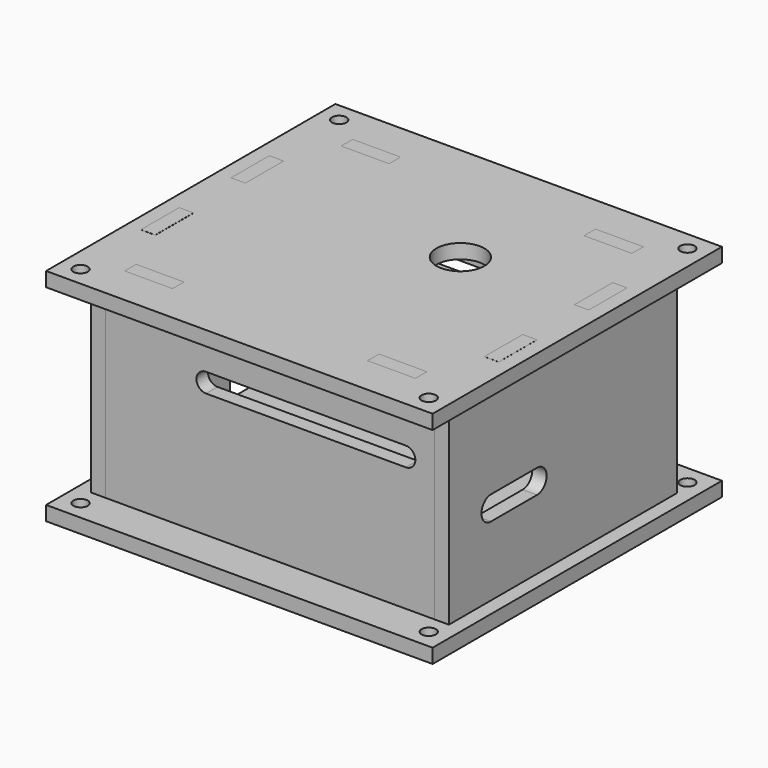
from build123d import *

# Parameters (mm, degrees)
SKETCH_W      = 80.7
SKETCH_H      = 75.5
SKETCH_R      = 1.5
SKETCH_W_2    = 10
SKETCH_H_2    = 3
SKETCH_W_3    = 3
SKETCH_H_3    = 10
PAD_DEPTH     = 3
PAD001_DEPTH  = 3
PAD002_DEPTH  = 3
PAD003_DEPTH  = 3
SKETCH004_W   = 80.7
SKETCH004_H   = 75.5
SKETCH004_R   = 1.5
SKETCH004_R_2 = 5
SKETCH004_W_2 = 10
SKETCH004_H_2 = 3
SKETCH004_W_3 = 3
SKETCH004_H_3 = 10
PAD004_DEPTH  = 3
PAD005_DEPTH  = 3


with BuildPart() as bottom:
    # Sketch → Pad (new body)
    with BuildSketch(Plane.XY):
        with Locations((40.35, 37.75)):
            Rectangle(SKETCH_W, SKETCH_H)
        with Locations((4, 4)):
            Circle(SKETCH_R, mode=Mode.SUBTRACT)
        with Locations((4, 71.5)):
            Circle(SKETCH_R, mode=Mode.SUBTRACT)
        with Locations((76.7, 71.5)):
            Circle(SKETCH_R, mode=Mode.SUBTRACT)
        with Locations((76.7, 4)):
            Circle(SKETCH_R, mode=Mode.SUBTRACT)
        with Locations((15, 9.5)):
            Rectangle(SKETCH_W_2, SKETCH_H_2, mode=Mode.SUBTRACT)
        with Locations((4.5, 32)):
            Rectangle(SKETCH_W_3, SKETCH_H_3, mode=Mode.SUBTRACT)
        with Locations((15, 66)):
            Rectangle(SKETCH_W_2, SKETCH_H_2, mode=Mode.SUBTRACT)
        with Locations((76.2, 26)):
            Rectangle(SKETCH_W_3, SKETCH_H_3, mode=Mode.SUBTRACT)
        with Locations((65.7, 66)):
            Rectangle(SKETCH_W_2, SKETCH_H_2, mode=Mode.SUBTRACT)
        with Locations((65.7, 9.5)):
            Rectangle(SKETCH_W_2, SKETCH_H_2, mode=Mode.SUBTRACT)
        with Locations((76.2, 49.5)):
            Rectangle(SKETCH_W_3, SKETCH_H_3, mode=Mode.SUBTRACT)
    extrude(amount=PAD_DEPTH)


with BuildPart() as obj1:
    # Sketch001 → Pad001 (new body)
    with BuildSketch(Plane.XZ.offset(-11)):
        Polygon((74.7, 3), (74.7, 43), (70.7, 43), (70.7, 46), (60.7, 46), (60.7, 43), (20, 43), (20, 46), (10, 46), (10, 43), (6, 43), (6, 3), (10, 3), (10, 0), (20, 0), (20, 3), (60.7, 3), (60.7, 0), (70.7, 0), (70.7, 3), align=None)
        with BuildLine():
            ThreePointArc((27, 33), (25, 31), (27, 29))
            Line((27, 29), (68.7, 29))
            ThreePointArc((68.7, 29), (70.7, 31), (68.7, 33))
            Line((27, 33), (68.7, 33))
        make_face(mode=Mode.SUBTRACT)
    extrude(amount=PAD001_DEPTH)


with BuildPart() as obj2:
    # Sketch002 → Pad002 (new body)
    with BuildSketch(Plane.XZ.offset(-11)):
        Polygon((74.7, 3), (74.7, 43), (70.7, 43), (70.7, 46), (60.7, 46), (60.7, 43), (20, 43), (20, 46), (10, 46), (10, 43), (6, 43), (6, 3), (10, 3), (10, 0), (20, 0), (20, 3), (60.7, 3), (60.7, 0), (70.7, 0), (70.7, 3), align=None)
        with BuildLine():
            ThreePointArc((27, 33), (25, 31), (27, 29))
            Line((27, 29), (68.7, 29))
            ThreePointArc((68.7, 29), (70.7, 31), (68.7, 33))
            Line((27, 33), (68.7, 33))
        make_face(mode=Mode.SUBTRACT)
    extrude(amount=PAD002_DEPTH)


with BuildPart() as obj2_1:
    # Body002 placement: moved
    add(obj2.part.moved(Location((0, 56.5, 0))))


with BuildPart() as back:
    # Sketch003 → Pad003 (new body)
    with BuildSketch(Plane.YZ.offset(74.7)):
        Polygon((8, 3), (21, 3), (21, 0), (31, 0), (31, 3), (44.5, 3), (44.5, 0), (54.5, 0), (54.5, 3), (67.5, 3), (67.5, 43), (54.5, 43), (54.5, 46), (44.5, 46), (44.5, 42.966816), (31, 42.966816), (31, 46.01099), (21, 46.01099), (21, 43), (8, 43), align=None)
        with BuildLine():
            ThreePointArc((19, 22.5), (16.5, 20), (19, 17.5))
            Line((19, 17.5), (31, 17.5))
            ThreePointArc((31, 17.5), (33.5, 20), (31, 22.5))
            Line((19, 22.5), (31, 22.5))
        make_face(mode=Mode.SUBTRACT)
    extrude(amount=PAD003_DEPTH)


with BuildPart() as top:
    # Sketch004 → Pad004 (new body)
    with BuildSketch(Plane.XY):
        with Locations((40.35, 37.75)):
            Rectangle(SKETCH004_W, SKETCH004_H)
        with Locations((4, 4)):
            Circle(SKETCH004_R, mode=Mode.SUBTRACT)
        with Locations((4, 71.5)):
            Circle(SKETCH004_R, mode=Mode.SUBTRACT)
        with Locations((76.7, 71.5)):
            Circle(SKETCH004_R, mode=Mode.SUBTRACT)
        with Locations((76.7, 4)):
            Circle(SKETCH004_R, mode=Mode.SUBTRACT)
        with Locations((49.7, 46)):
            Circle(SKETCH004_R_2, mode=Mode.SUBTRACT)
        with Locations((15, 9.5)):
            Rectangle(SKETCH004_W_2, SKETCH004_H_2, mode=Mode.SUBTRACT)
        with Locations((4.5, 26)):
            Rectangle(SKETCH004_W_3, SKETCH004_H_3, mode=Mode.SUBTRACT)
        with Locations((15, 66)):
            Rectangle(SKETCH004_W_2, SKETCH004_H_2, mode=Mode.SUBTRACT)
        with Locations((76.2, 26)):
            Rectangle(SKETCH004_W_3, SKETCH004_H_3, mode=Mode.SUBTRACT)
        with Locations((65.7, 66)):
            Rectangle(SKETCH004_W_2, SKETCH004_H_2, mode=Mode.SUBTRACT)
        with Locations((65.7, 9.5)):
            Rectangle(SKETCH004_W_2, SKETCH004_H_2, mode=Mode.SUBTRACT)
        with Locations((76.2, 49.5)):
            Rectangle(SKETCH004_W_3, SKETCH004_H_3, mode=Mode.SUBTRACT)
        with Locations((4.5, 49.5)):
            Rectangle(SKETCH004_W_3, SKETCH004_H_3, mode=Mode.SUBTRACT)
    extrude(amount=PAD004_DEPTH)


with BuildPart() as top_1:
    # Body004 placement: moved
    add(top.part.moved(Location((0, 0, 43))))


with BuildPart() as front:
    # Sketch005 → Pad005 (new body)
    with BuildSketch(Plane.YZ):
        Polygon((8, 3), (8, 43.020058), (21, 43.020058), (21, 46.020058), (31, 46.020058), (31, 43), (44.5, 43), (44.5, 46), (54.5, 46), (54.5, 43), (67.5, 43), (67.5, 3), (58.5, 3), (58.5, 34), (40.5, 34), (40.5, 3), (37, 3), (37, 0), (27, 0), (27, 3), (24, 3), (24, 18), (14, 18), (14, 3), align=None)
    extrude(amount=PAD005_DEPTH)


with BuildPart() as front_1:
    # Body005 placement: moved
    add(front.part.moved(Location((3, 0, 0))))


solid = Compound([bottom.part, obj1.part, obj2_1.part, back.part, top_1.part, front_1.part])
